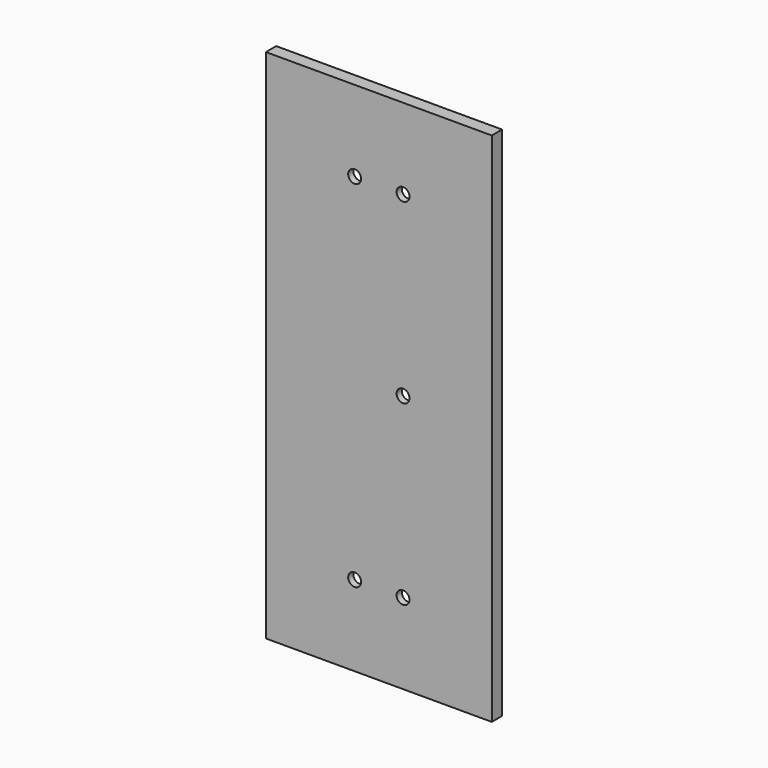
from build123d import *

# Parameters (mm, degrees)
F0_W     = 35
F0_H     = 80
F1_DEPTH = 2
F2_W     = 17.5
F2_H     = 61
F3_DEPTH = 1
F4_R     = 1
F5_DEPTH = 25
F6_R     = 5


with BuildPart() as f1:
    # F0 (on Front) → F1 (new body)
    with BuildSketch(Plane.XZ):
        Rectangle(F0_W, F0_H)
    extrude(amount=F1_DEPTH)

    # F2 (on face) → F3 (cut)
    with BuildSketch(Plane(origin=(0, 0, 0), x_dir=(-1, 0, 0), z_dir=(0, 1, 0))):
        Rectangle(F2_W, F2_H)
    extrude(amount=-F3_DEPTH, mode=Mode.SUBTRACT)

    # F4 (on face) → F5 (cut)
    with BuildSketch(Plane(origin=(0, -1, 0), x_dir=(-1, 0, 0), z_dir=(0, 1, 0))):
        with Locations((-3.75, 27.5)):
            Circle(F4_R)
        with Locations((-3.75, 0)):
            Circle(F4_R)
        with Locations((-3.75, -27.5)):
            Circle(F4_R)
        with Locations((3.75, 27.5)):
            Circle(F4_R)
        with Locations((3.75, -27.5)):
            Circle(F4_R)
    extrude(amount=-F5_DEPTH, mode=Mode.SUBTRACT)

    # F6
    f6_edges = [f1.edges().sort_by_distance(p)[0] for p in [
        (-8.75, -0.5, 30.5),
        (8.75, -0.5, 30.5),
        (-8.75, -0.5, -30.5),
        (8.75, -0.5, -30.5),
    ]]
    fillet(f6_edges, radius=F6_R)


solid = f1.part
